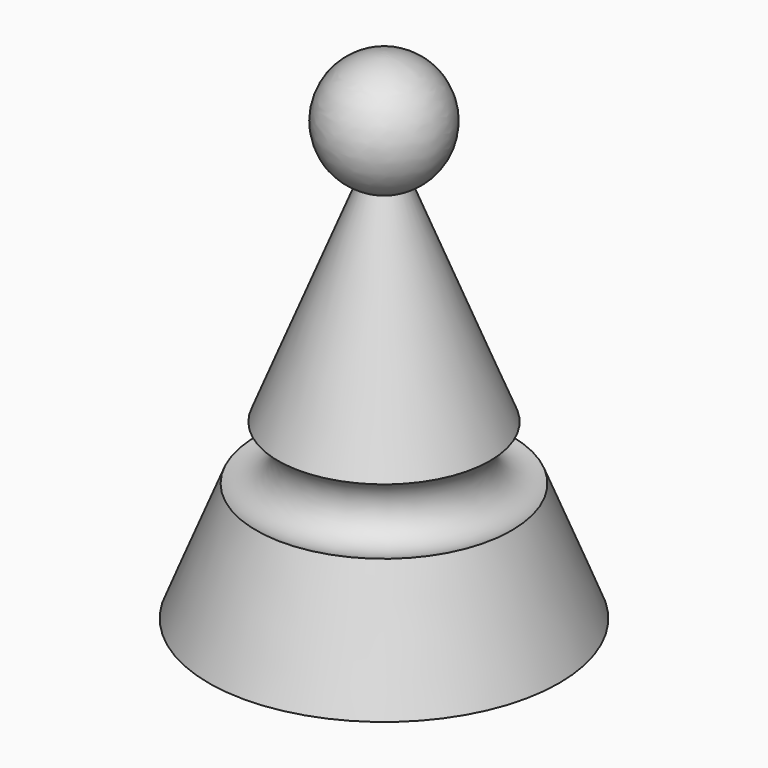
from build123d import *


with BuildPart() as f1:
    # F0 (on Front) → F1 (revolve)
    with BuildSketch(Plane.XZ):
        with BuildLine():
            Line((460.833384, 752.91654), (94.333232, 1669.166921))
            ThreePointArc((94.333232, 1669.166921), (249.416922, 1953.03331), (0, 2159))
            Line((0, 2159), (0, 1651))
            Line((0, 1651), (0, 0))
            Line((0, 0), (762, 0))
            Line((762, 0), (555.166616, 517.08346))
            ThreePointArc((555.166616, 517.08346), (390.08346, 587.833384), (460.833384, 752.91654))
        make_face()
    revolve(axis=Axis((0, 0, 484.992713), (0, 0, -1)))


solid = f1.part
